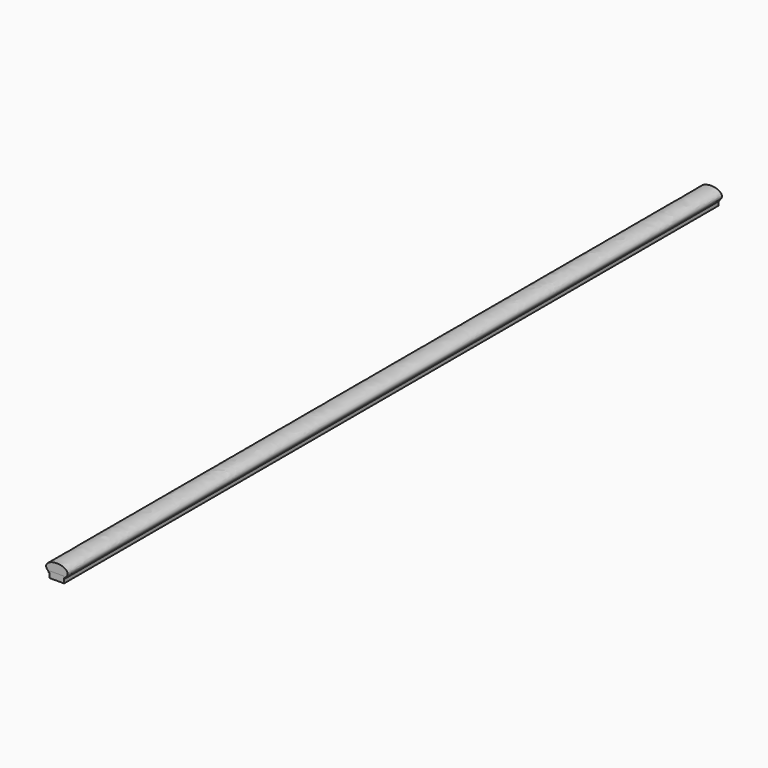
from build123d import *

# Parameters (mm, degrees)
F1_DEPTH = 2438.4
F2_W     = 42.9133
F2_H     = 19.05
F3_DEPTH = 2438.4


with BuildPart() as f1:
    # F0 (on Front) → F1 (new body)
    with BuildSketch(Plane.XZ):
        with BuildLine():
            Line((-21.45665, -5.1816), (-21.45665, 0))
            Line((-21.45665, 0), (21.45665, 0))
            Line((21.45665, 0), (21.45665, -5.1816))
            Line((21.45665, -5.1816), (24.63165, -5.1816))
            Line((24.63165, -5.1816), (24.63165, -4.2922702083))
            ThreePointArc((24.63165, -4.2922702083), (25.1402708423, -2.0766681238), (26.5642848805, -0.3047280073))
            add(Edge.make_bspline(
                [(26.5642848805, -0.3047280073), (61.0616176933, 26.924), (0, 26.924), (-61.0616176933, 26.924), (-26.5642848805, -0.3047280073)],
                knots=[5.6828013008, 5.6828013008, 5.6828013008, 7.853981634, 7.853981634, 10.0251619672, 10.0251619672, 10.0251619672], degree=2, weights=[1, 0.4663907343, 1, 0.4663907343, 1]))
            ThreePointArc((-26.5642848805, -0.3047280073), (-25.1402708423, -2.0766681238), (-24.63165, -4.2922702083))
            Line((-24.63165, -4.2922702083), (-24.63165, -5.1816))
            Line((-24.63165, -5.1816), (-21.45665, -5.1816))
        make_face()
    extrude(amount=-F1_DEPTH)


with BuildPart() as f3:
    # F2 (on Front) → F3 (new body)
    with BuildSketch(Plane.XZ):
        with Locations((0, -9.525)):
            Rectangle(F2_W, F2_H)
    extrude(amount=-F3_DEPTH)


solid = Compound([f1.part, f3.part])
